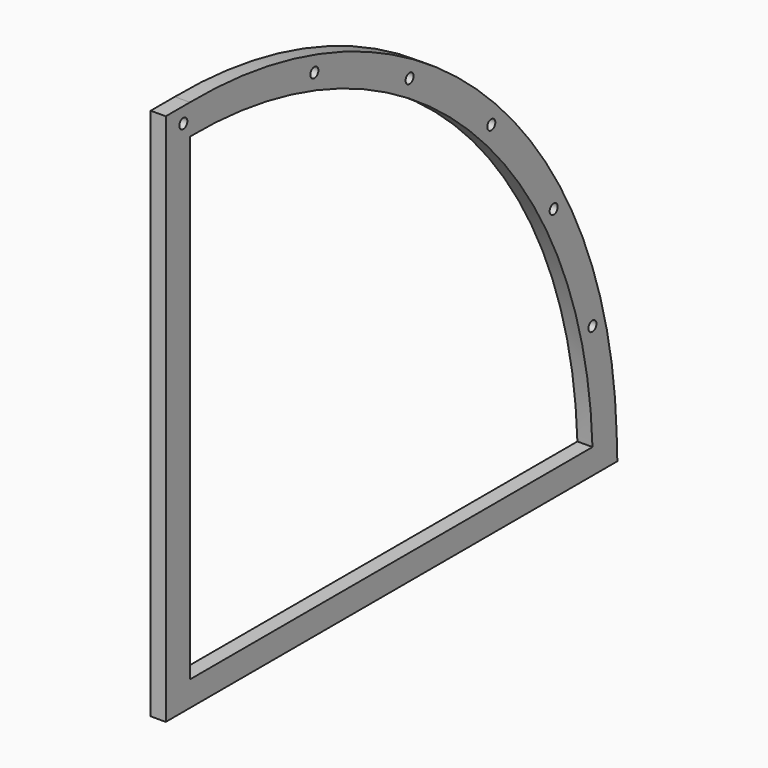
from build123d import *

# Parameters (mm, degrees)
F0_R     = 6.35
F1_DEPTH = 19.05


with BuildPart() as f1:
    # F0 (on Right) → F1 (new body)
    with BuildSketch(Plane.YZ):
        with BuildLine():
            Line((334.807445, -196.726841), (333.773435, -165.933012))
            ThreePointArc((333.773435, -165.933012), (128.220826, 292.742264), (-339.662255, 476.373159))
            Line((-339.662255, 476.373159), (-377.762255, 476.373159))
            Line((-377.762255, 476.373159), (-377.762255, -196.726841))
            Line((-377.762255, -196.726841), (314.387745, -196.726841))
            Line((314.387745, -196.726841), (334.807445, -196.726841))
        make_face()
        with BuildLine():
            ThreePointArc((-339.326565, 438.274146), (101.046912, 266.007515), (295.615862, -164.976841))
            Line((295.615862, -164.976841), (-339.326565, -164.976841))
            Line((-339.326565, -164.976841), (-339.326565, 438.274146))
        make_face(mode=Mode.SUBTRACT)
        with Locations((295.538976, -30.528007)):
            Circle(F0_R, mode=Mode.SUBTRACT)
        with Locations((234.36105, 124.383493)):
            Circle(F0_R, mode=Mode.SUBTRACT)
        with Locations((-350.040551, 457.090986)):
            Circle(F0_R, mode=Mode.SUBTRACT)
        with Locations((-143.276888, 429.635451)):
            Circle(F0_R, mode=Mode.SUBTRACT)
        with Locations((135.900178, 258.16555)):
            Circle(F0_R, mode=Mode.SUBTRACT)
        with Locations((7.055922, 362.096482)):
            Circle(F0_R, mode=Mode.SUBTRACT)
    extrude(amount=F1_DEPTH)


solid = f1.part
